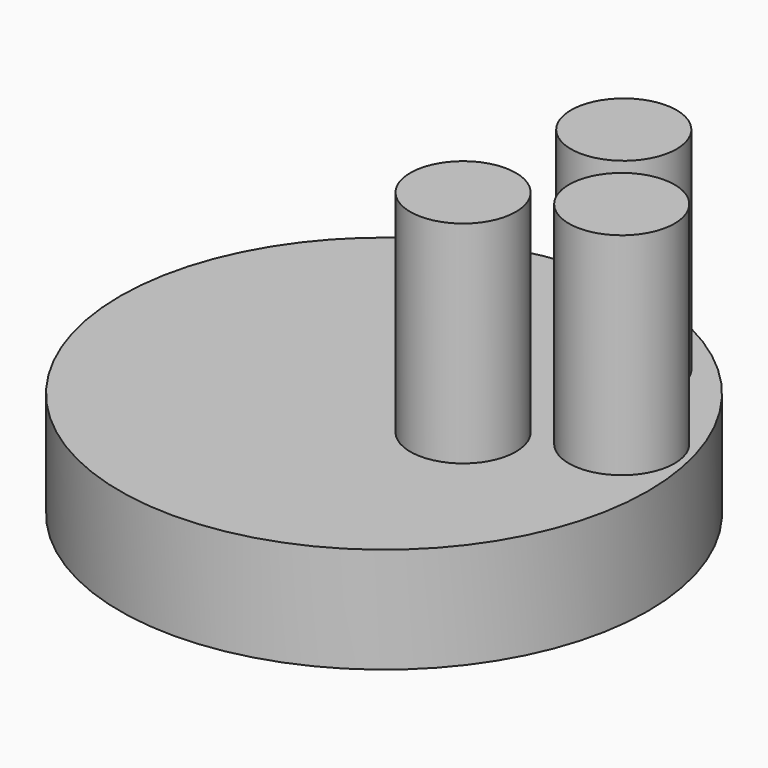
from build123d import *

# Parameters (mm, degrees)
F0_R     = 25
F1_DEPTH = 10
F2_R     = 5
F3_DEPTH = 30


with BuildPart() as f1:
    # F0 (on Top) → F1 (new body)
    with BuildSketch(Plane.XY):
        Circle(F0_R)
    extrude(amount=F1_DEPTH)


with BuildPart() as f3:
    # F2 (on Top) → F3 (new body)
    with BuildSketch(Plane.XY):
        with Locations((18.765489, 4.686291)):
            Circle(F2_R)
        with Locations((11.428151, 14.099938)):
            Circle(F2_R)
        with Locations((8.428867, -1.17477)):
            Circle(F2_R)
    extrude(amount=F3_DEPTH)


solid = Compound([f1.part, f3.part])
